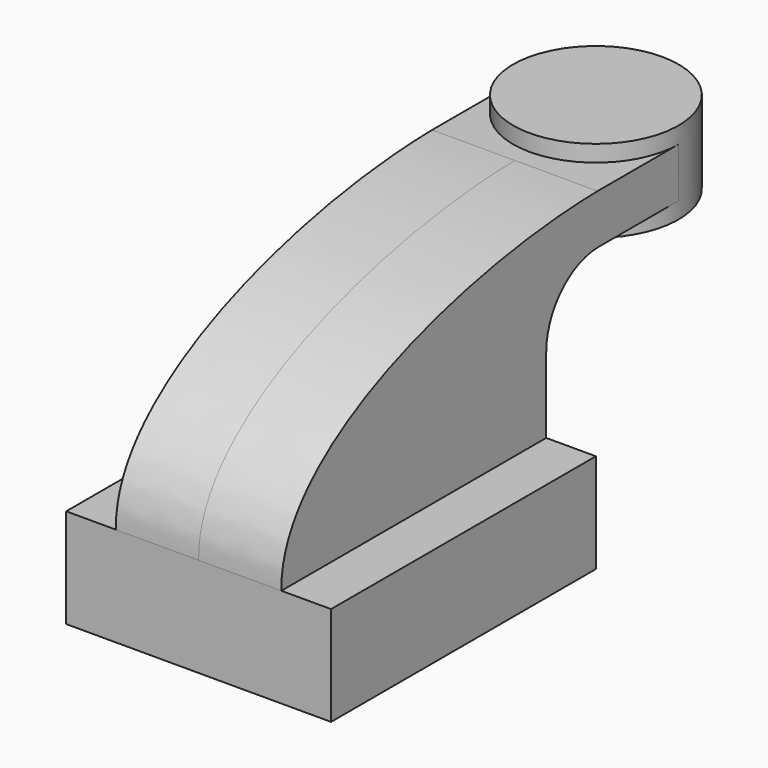
from build123d import *

# Parameters (mm, degrees)
F1_DEPTH = 40
F0_W     = 25
F0_H     = 15
F2_DEPTH = 25


with BuildPart() as f1:
    # F0 (on Right) → F1 (new body, symmetric)
    with BuildSketch(Plane.YZ):
        Polygon((-50, -15), (50, -15), (50, 15), (35, 15), (-50, 15), align=None)
    extrude(amount=F1_DEPTH, both=True)

    # F0 (on Right) → F2 (join, symmetric)
    with BuildSketch(Plane.YZ):
        with BuildLine():
            add(Edge.make_bspline(
                [(-50, 15), (-50.800499, 51.844761), (17.916949, 72.011843), (69.400141, 72.759509)],
                knots=[0, 0, 0, 0, 132.636927, 132.636927, 132.636927, 132.636927], degree=3))
            Line((-50, 15), (35, 15))
            Line((35, 15), (35, 37.76465))
            ThreePointArc((35, 37.76465), (45.040081, 62.300388), (69.400141, 72.759509))
        make_face()
        with BuildLine():
            Line((35, 15), (50, 15))
            Line((50, 15), (50, 37.76465))
            ThreePointArc((50, 37.76465), (55.698448, 51.745552), (69.546562, 57.759509))
            Line((69.546562, 57.759509), (75, 57.759509))
            Line((75, 57.759509), (75, 72.759509))
            Line((75, 72.759509), (69.400141, 72.759509))
            ThreePointArc((69.400141, 72.759509), (45.040081, 62.300388), (35, 37.76465))
            Line((35, 37.76465), (35, 15))
        make_face()
        with Locations((87.5, 65.259509)):
            Rectangle(F0_W, F0_H)
    extrude(amount=F2_DEPTH, both=True)

    # F0 (on Right) → F3 (revolve)
    with BuildSketch(Plane.YZ):
        Polygon((100, 77.759509), (100, 72.759509), (100, 57.759509), (100, 52.759509), (125, 52.759509), (125, 77.759509), align=None)
    revolve(axis=Axis((0, 100, 65.259509), (0, 0, -1)))


solid = f1.part
